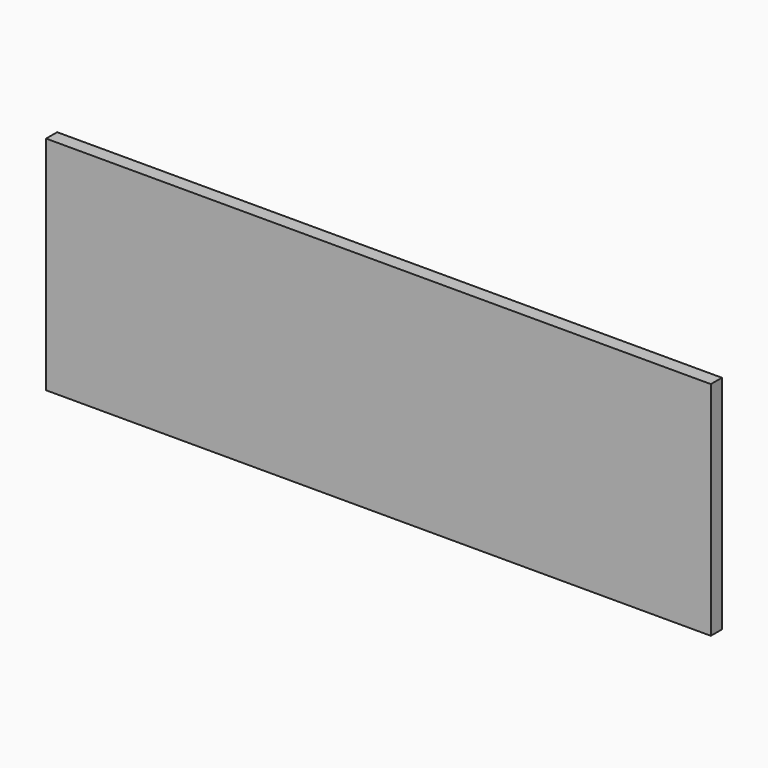
from build123d import *

# Parameters (mm, degrees)
F0_W     = 19.4744579077
F0_H     = 203.2
F0_W_2   = 577.4255420923
F0_W_3   = 12.7
F1_DEPTH = 12.7


with BuildPart() as f1:
    # F0 (on Front) → F1 (new body)
    with BuildSketch(Plane.XZ):
        with Locations((-288.7545581698, -39.9770570773)):
            Rectangle(F0_W, F0_H)
        with Locations((9.6954418302, -39.9770570773)):
            Rectangle(F0_W_2, F0_H)
        with Locations((304.7582128763, -39.9770570773)):
            Rectangle(F0_W_3, F0_H)
    extrude(amount=-F1_DEPTH)


solid = f1.part
